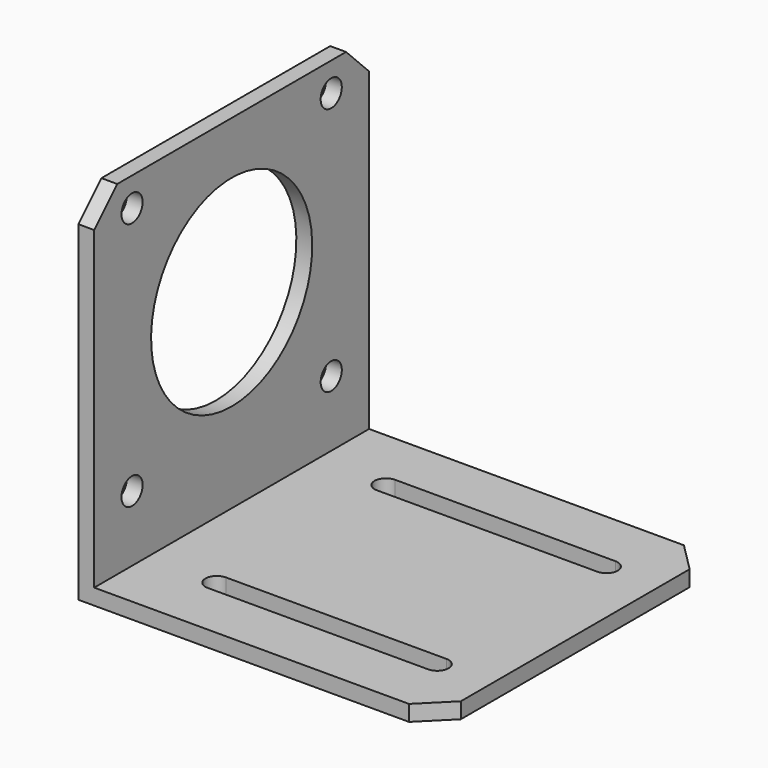
from build123d import *

# Parameters (mm, degrees)
PAD_DEPTH       = 65
SKETCH001_R     = 19.05
SKETCH001_R_2   = 2.5
POCKET_DEPTH    = 3
POCKET001_DEPTH = 3


with BuildPart() as part:
    # Sketch → Pad (new body)
    with BuildSketch(Plane.XZ):
        Polygon((0, 0), (0, 68), (3, 68), (3, 3), (68, 3), (68, 0), align=None)
    extrude(amount=PAD_DEPTH)

    # Sketch001 (on Face1 of Pad) → Pocket (cut)
    with BuildSketch(Plane(origin=(0, 0, 0), x_dir=(0, 0, -1), z_dir=(-1, 0, 0))):
        with Locations((-39, 32.5)):
            Circle(SKETCH001_R)
        with Locations((-62.55, 56.05)):
            Circle(SKETCH001_R_2)
        with Locations((-62.55, 8.95)):
            Circle(SKETCH001_R_2)
        with Locations((-15.45, 8.95)):
            Circle(SKETCH001_R_2)
        with Locations((-15.45, 56.05)):
            Circle(SKETCH001_R_2)
        Polygon((-62.55, 0), (-68, 0), (-68, 5.45), align=None)
        Polygon((-68, 59.55), (-68, 65), (-62.55, 65), align=None)
    extrude(amount=-POCKET_DEPTH, mode=Mode.SUBTRACT)

    # Sketch002 (on Face7 of Pocket) → Pocket001 (cut)
    with BuildSketch(Plane(origin=(0, 0, 0), x_dir=(1, 0, 0), z_dir=(0, 0, -1))):
        Polygon((62.55, 65), (68, 65), (68, 59.55), align=None)
        Polygon((62.55, 0), (68, 0), (68, 5.45), align=None)
        with BuildLine():
            ThreePointArc((16.15, 54.6), (14, 52.45), (16.15, 50.3))
            Line((16.15, 50.3), (57.85, 50.3))
            ThreePointArc((57.85, 50.3), (60, 52.45), (57.85, 54.6))
            Line((16.15, 54.6), (57.85, 54.6))
        make_face()
        with BuildLine():
            ThreePointArc((16.15, 14.6), (14, 12.45), (16.15, 10.3))
            Line((16.15, 10.3), (57.85, 10.3))
            ThreePointArc((57.85, 10.3), (60, 12.45), (57.85, 14.6))
            Line((16.15, 14.6), (57.85, 14.6))
        make_face()
    extrude(amount=-POCKET001_DEPTH, mode=Mode.SUBTRACT)


solid = part.part
